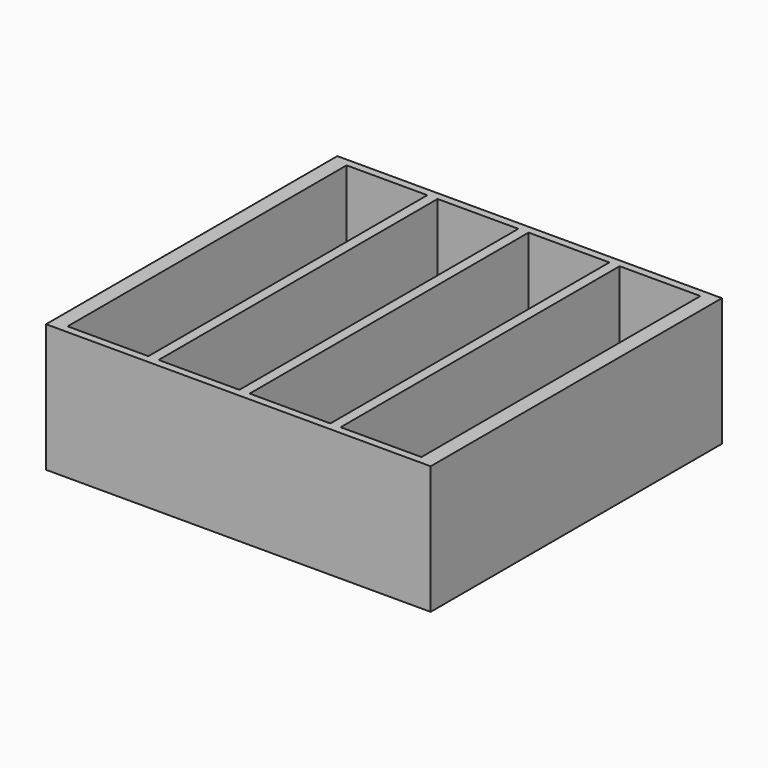
from build123d import *

# Parameters (mm, degrees)
SKETCH_W        = 150
SKETCH_H        = 142
PAD_DEPTH       = 50
SKETCH001_W     = 31.5
SKETCH001_H     = 136
POCKET_DEPTH    = 45
SKETCH002_R     = 8.5
SKETCH002_R_2   = 11
POCKET001_DEPTH = 5


with BuildPart() as part:
    # Sketch → Pad (new body)
    with BuildSketch(Plane.XY):
        with Locations((75, 71)):
            Rectangle(SKETCH_W, SKETCH_H)
    extrude(amount=PAD_DEPTH)

    # Sketch001 → Pocket (cut)
    with BuildSketch(Plane.XY.offset(50)):
        with Locations((21.75, 71)):
            Rectangle(SKETCH001_W, SKETCH001_H)
        with Locations((57.25, 71)):
            Rectangle(SKETCH001_W, SKETCH001_H)
        with Locations((92.75, 71)):
            Rectangle(SKETCH001_W, SKETCH001_H)
        with Locations((128.25, 71)):
            Rectangle(SKETCH001_W, SKETCH001_H)
    extrude(amount=-POCKET_DEPTH, mode=Mode.SUBTRACT)

    # Sketch002 → Pocket001 (cut)
    with BuildSketch(Plane.XY.offset(5)):
        with Locations((21.75, 37.25)):
            Circle(SKETCH002_R)
        with Locations((21.75, 71)):
            Circle(SKETCH002_R_2)
        with Locations((21.75, 104.75)):
            Circle(SKETCH002_R)
        with Locations((57.25, 37.25)):
            Circle(SKETCH002_R)
        with Locations((57.25, 71)):
            Circle(SKETCH002_R_2)
        with Locations((57.25, 104.75)):
            Circle(SKETCH002_R)
        with Locations((92.75, 37.25)):
            Circle(SKETCH002_R)
        with Locations((92.75, 71)):
            Circle(SKETCH002_R_2)
        with Locations((92.75, 104.75)):
            Circle(SKETCH002_R)
        with Locations((128.25, 37.25)):
            Circle(SKETCH002_R)
        with Locations((128.25, 71)):
            Circle(SKETCH002_R_2)
        with Locations((128.25, 104.75)):
            Circle(SKETCH002_R)
    extrude(amount=-POCKET001_DEPTH, mode=Mode.SUBTRACT)


solid = part.part
